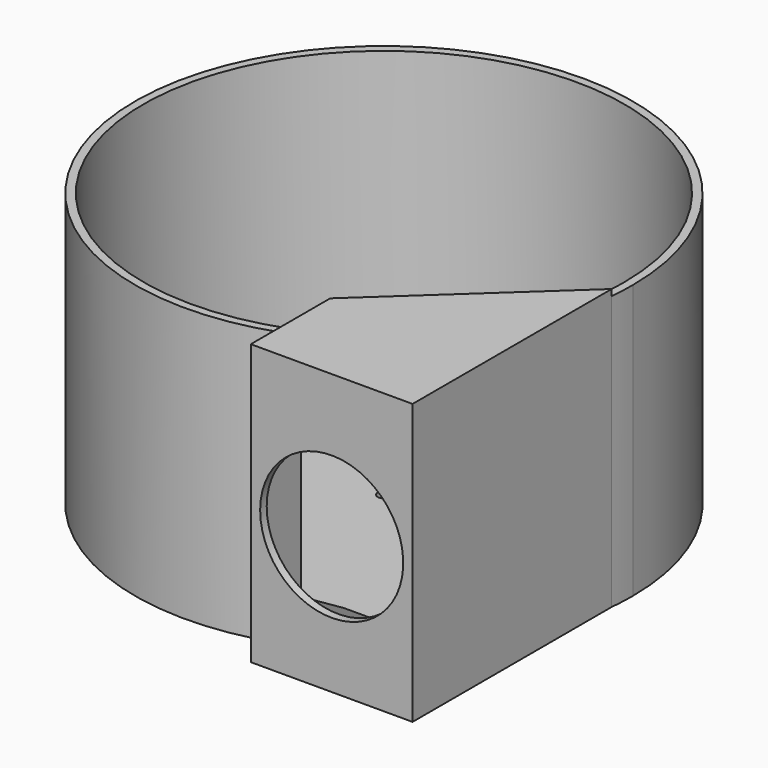
from build123d import *

# Parameters (mm, degrees)
F1_DEPTH  = 279.4
F3_T      = -8.382
F4_D      = 146.05
F4_DEPTH  = 12.7
F4_TIP    = 43.8778467045
F6_DEPTH  = 147.32
F8_DEPTH  = 6.35
F10_D     = 12.7
F10_DEPTH = 12.7
F10_TIP   = 3.8154649308


with BuildPart() as f1:
    # F0 (on Top) → F1 (new body)
    with BuildSketch(Plane.XY):
        with BuildLine():
            Line((87.6268090251, -25.4), (252.7268090251, -25.4))
            ThreePointArc((252.7268090251, -25.4), (253.68150257, -12.7159448652), (254, 0))
            ThreePointArc((254, 0), (-208.2945144409, 145.3595378839), (87.6268090251, -238.4062548258))
            Line((87.6268090251, -238.4062548258), (87.6268090251, -25.4))
        make_face()
        with BuildLine():
            ThreePointArc((87.6268090251, -238.4062548258), (200.7562265004, -155.6050690733), (252.7268090251, -25.4))
            Line((252.7268090251, -25.4), (87.6268090251, -25.4))
            Line((87.6268090251, -25.4), (87.6268090251, -238.4062548258))
        make_face()
        with BuildLine():
            Line((252.7268090251, -279.4), (252.7268090251, -25.4))
            ThreePointArc((252.7268090251, -25.4), (200.7562265004, -155.6050690733), (87.6268090251, -238.4062548258))
            Line((87.6268090251, -238.4062548258), (87.6268090251, -279.4))
            Line((87.6268090251, -279.4), (252.7268090251, -279.4))
        make_face()
    extrude(amount=F1_DEPTH)

    # F3
    f3_openings = [f1.faces().sort_by_distance(p)[0] for p in [
        (15.178098, -16.804954, 279.4),
    ]]
    offset(amount=F3_T, openings=f3_openings, kind=Kind.INTERSECTION)

    # F4
    with Locations(Plane.XZ.offset(279.4)):
        with Locations((170.1768090251, 139.7)):
            Hole(F4_D / 2, depth=F4_DEPTH)
            with Locations((0, 0, -(F4_DEPTH + F4_TIP / 2))):  # 118° drill point
                Cone(0, F4_D / 2, F4_TIP, mode=Mode.SUBTRACT)

    # F5 (on face) → F6 (join)
    with BuildSketch(Plane(origin=(244.3448090251, 0, 0), x_dir=(0, -1, 0), z_dir=(-1, 0, 0))):
        Polygon((271.018, 66.548), (172.6248780656, 8.382), (271.018, 8.382), align=None)
        Polygon((271.018, 212.852), (271.018, 279.4), (178.0887059319, 279.4), align=None)
    extrude(amount=F6_DEPTH)

    # F7 (on face) → F8 (join)
    with BuildSketch(Plane.XY.offset(279.4)):
        Polygon((87.6268090251, -178.0887059319), (87.6268090251, -279.4), (252.7268090251, -279.4), (252.7268090251, -25.4), align=None)
    extrude(amount=F8_DEPTH)

    # F10
    with Locations(Plane.XY.offset(8.382)):
        with Locations((0, 0)):
            Hole(F10_D / 2, depth=F10_DEPTH)
            with Locations((0, 0, -(F10_DEPTH + F10_TIP / 2))):  # 118° drill point
                Cone(0, F10_D / 2, F10_TIP, mode=Mode.SUBTRACT)


solid = f1.part
